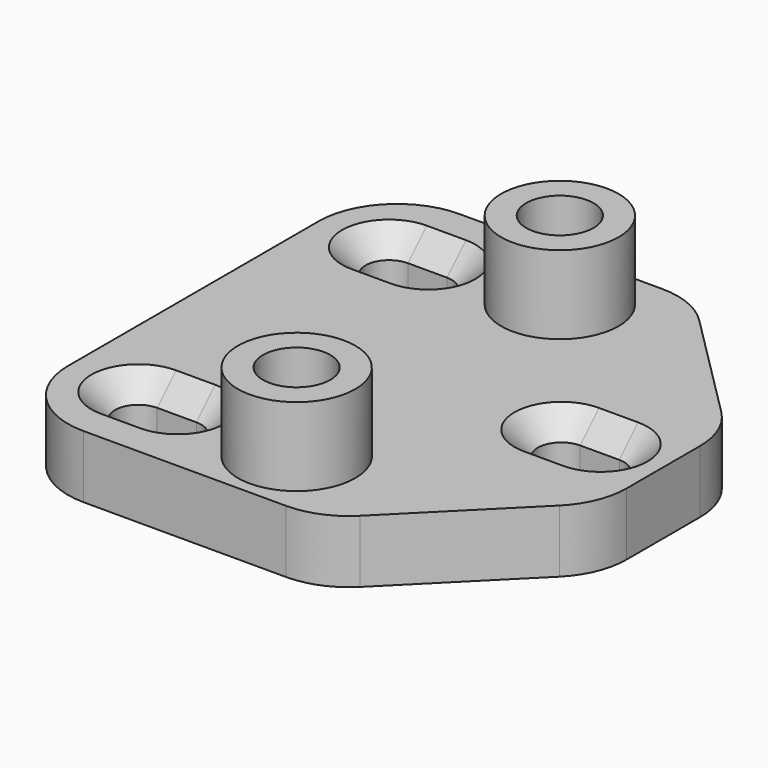
from build123d import *

# Parameters (mm, degrees)
PAD_DEPTH       = 4
SKETCH001_R     = 3.75
PAD001_DEPTH    = 9
SKETCH002_R     = 2.15
POCKET_DEPTH    = 7
CHAMFER_SIZE    = 1.5
CHAMFER001_SIZE = 1.5
CHAMFER002_SIZE = 1.5
FILLET_R        = 5
FILLET001_R     = 5


with BuildPart() as part:
    # Sketch → Pad (new body)
    with BuildSketch(Plane.XY):
        Polygon((0, 0), (20, 0), (30, 10), (30, 20), (20, 30), (0, 30), align=None)
        with BuildLine():
            ThreePointArc((4.5, 6.5), (3, 5), (4.5, 3.5))
            Line((4.5, 3.5), (7, 3.5))
            ThreePointArc((7, 3.5), (8.5, 5), (7, 6.5))
            Line((7, 6.5), (4.5, 6.5))
        make_face(mode=Mode.SUBTRACT)
        with BuildLine():
            ThreePointArc((4.5, 26.5), (3, 25), (4.5, 23.5))
            Line((4.5, 23.5), (7, 23.5))
            ThreePointArc((7, 23.5), (8.5, 25), (7, 26.5))
            Line((7, 26.5), (4.5, 26.5))
        make_face(mode=Mode.SUBTRACT)
        with BuildLine():
            ThreePointArc((23.5, 16.5), (22, 15), (23.5, 13.5))
            Line((23.5, 13.5), (26, 13.5))
            ThreePointArc((26, 13.5), (27.5, 15), (26, 16.5))
            Line((26, 16.5), (23.5, 16.5))
        make_face(mode=Mode.SUBTRACT)
    extrude(amount=PAD_DEPTH)

    # Sketch001 → Pad001 (join)
    with BuildSketch(Plane.XY):
        with Locations((15, 25.5)):
            Circle(SKETCH001_R)
        with Locations((15, 4.5)):
            Circle(SKETCH001_R)
    extrude(amount=PAD001_DEPTH)

    # Sketch002 → Pocket (cut)
    with BuildSketch(Plane.XY.offset(9)):
        with Locations((15, 25.5)):
            Circle(SKETCH002_R)
        with Locations((15, 4.5)):
            Circle(SKETCH002_R)
    extrude(amount=-POCKET_DEPTH, mode=Mode.SUBTRACT)

    # Chamfer
    chamfer_edges = [part.edges().sort_by_distance(p)[0] for p in [
        (3, 5, 4),
        (5.75, 6.5, 4),
        (8.5, 5, 4),
        (5.75, 3.5, 4),
    ]]
    chamfer(chamfer_edges, length=CHAMFER_SIZE)

    # Chamfer001
    chamfer001_edges = [part.edges().sort_by_distance(p)[0] for p in [
        (3, 25, 4),
        (5.75, 26.5, 4),
        (8.5, 25, 4),
        (5.75, 23.5, 4),
    ]]
    chamfer(chamfer001_edges, length=CHAMFER001_SIZE)

    # Chamfer002
    chamfer002_edges = [part.edges().sort_by_distance(p)[0] for p in [
        (22, 15, 4),
        (24.75, 16.5, 4),
        (27.5, 15, 4),
        (24.75, 13.5, 4),
    ]]
    chamfer(chamfer002_edges, length=CHAMFER002_SIZE)

    # Fillet
    fillet_edges = [part.edges().sort_by_distance(p)[0] for p in [
        (0, 0, 2),
        (20, 0, 2),
        (30, 10, 2),
    ]]
    fillet(fillet_edges, radius=FILLET_R)

    # Fillet001
    fillet001_edges = [part.edges().sort_by_distance(p)[0] for p in [
        (30, 20, 2),
        (20, 30, 2),
        (0, 30, 2),
    ]]
    fillet(fillet001_edges, radius=FILLET001_R)


solid = part.part
